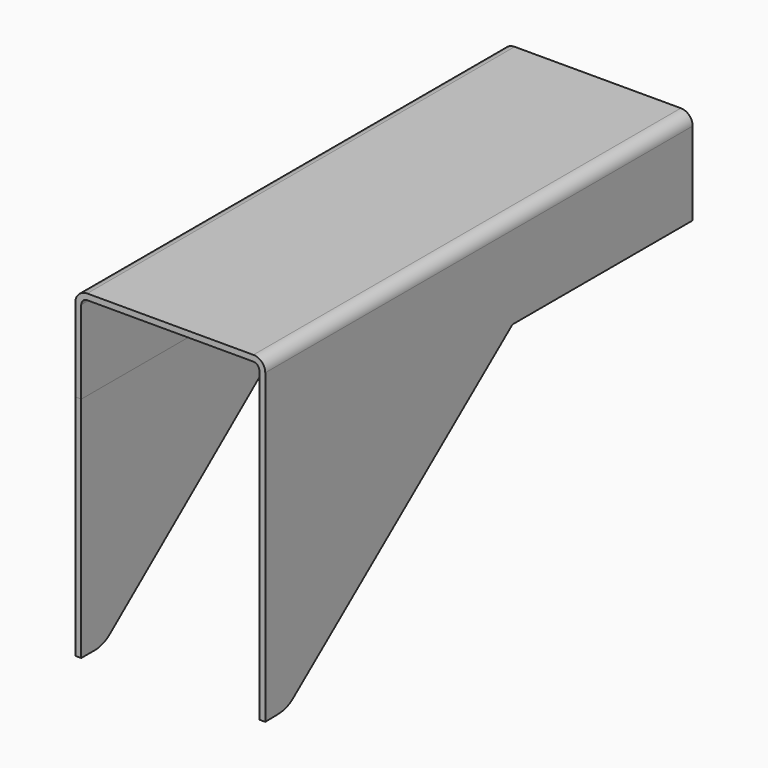
from build123d import *

# Parameters (mm, degrees)
F1_DEPTH = 180
F3_DEPTH = 2
F5_DEPTH = 2


with BuildPart() as f1:
    # F0 (on Front) → F1 (new body)
    with BuildSketch(Plane.XZ):
        with BuildLine():
            Line((-2, 0), (0, 0))
            Line((0, 0), (0, 28))
            ThreePointArc((0, 28), (0.585786, 29.414214), (2, 30))
            Line((2, 30), (58, 30))
            ThreePointArc((58, 30), (59.414214, 29.414214), (60, 28))
            Line((60, 28), (60, 0))
            Line((60, 0), (62, 0))
            Line((62, 0), (62, 28))
            ThreePointArc((62, 28), (60.828427, 30.828427), (58, 32))
            Line((58, 32), (2, 32))
            ThreePointArc((2, 32), (-0.828427, 30.828427), (-2, 28))
            Line((-2, 28), (-2, 0))
        make_face()
    extrude(amount=F1_DEPTH)

    # F2 (on face) → F3 (join)
    with BuildSketch(Plane.YZ.offset(62)):
        with BuildLine():
            Line((-75.907721, 0), (-180, 0))
            Line((-180, 0), (-180, -75.565889))
            Line((-180, -75.565889), (-174.256336, -75.446111))
            ThreePointArc((-174.256336, -75.446111), (-171.074982, -74.856203), (-168.24851, -73.281379))
            Line((-168.24851, -73.281379), (-75.907721, 0))
        make_face()
    extrude(amount=-F3_DEPTH)


with BuildPart() as f5:
    # F4 (on face) → F5 (new body)
    with BuildSketch(Plane(origin=(-2, 0, 0), x_dir=(0, -1, 0), z_dir=(-1, 0, 0))):
        with BuildLine():
            Line((180, -76.785117), (180, 0))
            Line((180, 0), (75.113013, 0))
            Line((75.113013, 0), (167.980425, -74.581994))
            ThreePointArc((167.980425, -74.581994), (170.923133, -76.218271), (174.242111, -76.785117))
            Line((174.242111, -76.785117), (180, -76.785117))
        make_face()
    extrude(amount=-F5_DEPTH)


solid = Compound([f1.part, f5.part])
